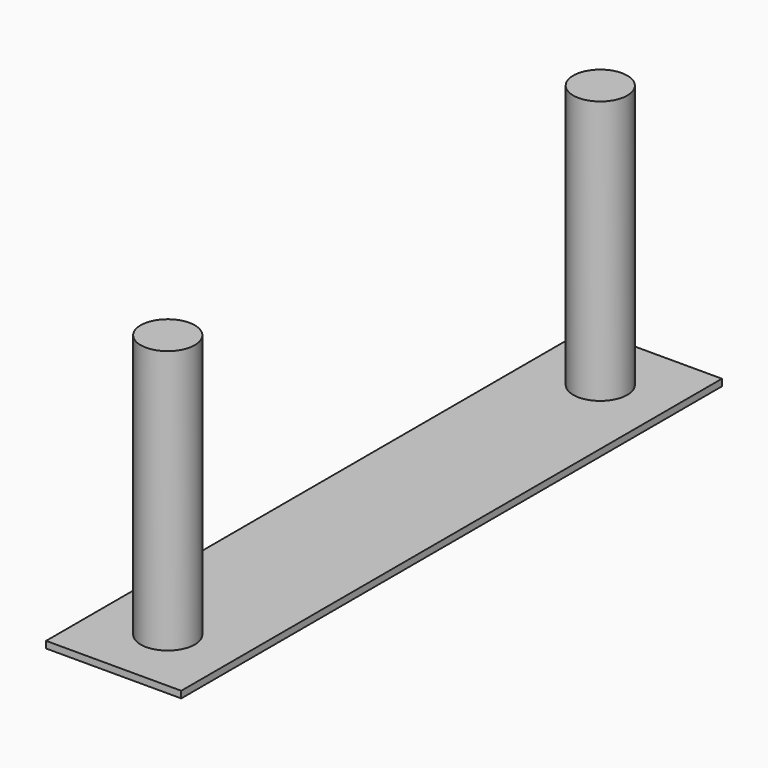
from build123d import *

# Parameters (mm, degrees)
F0_W     = 10
F0_H     = 50
F0_R     = 2
F1_DEPTH = 0.5
F2_DEPTH = 20


with BuildPart() as f1:
    # F0 (on Top) → F1 (new body)
    with BuildSketch(Plane.XY):
        with Locations((-5, 25)):
            Rectangle(F0_W, F0_H)
        with Locations((-5, 5)):
            Circle(F0_R, mode=Mode.SUBTRACT)
        with Locations((-5, 45)):
            Circle(F0_R, mode=Mode.SUBTRACT)
    extrude(amount=F1_DEPTH)

    # F0 (on Top) → F2 (join)
    with BuildSketch(Plane.XY):
        with Locations((-5, 5)):
            Circle(F0_R)
        with Locations((-5, 45)):
            Circle(F0_R)
    extrude(amount=F2_DEPTH)


solid = f1.part
